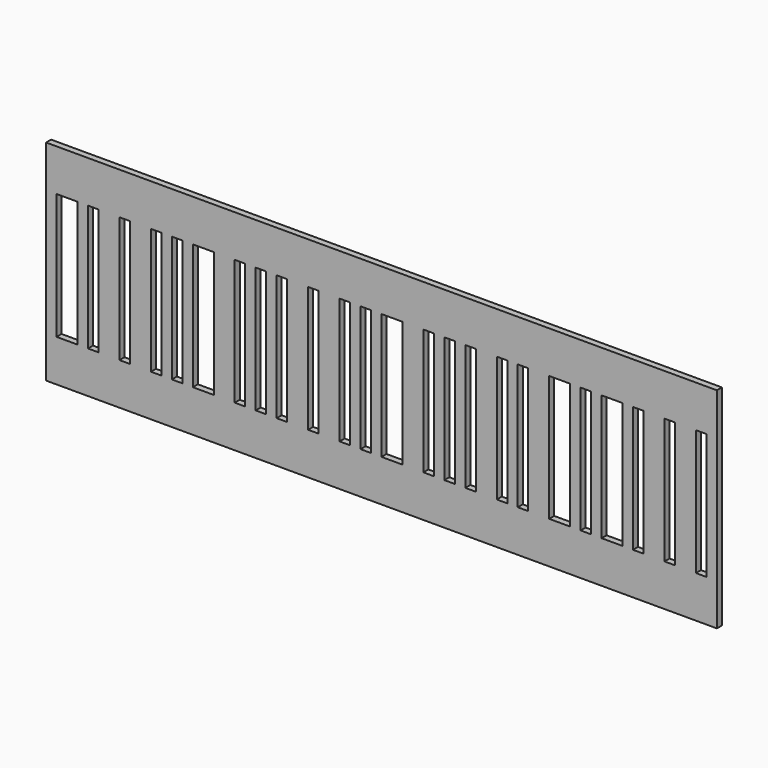
from build123d import *

# Parameters (mm, degrees)
F0_W     = 320
F0_H     = 100
F0_W_2   = 10
F0_H_2   = 60
F0_W_3   = 5
F1_DEPTH = 3


with BuildPart() as f1:
    # F0 (on Front) → F1 (new body)
    with BuildSketch(Plane.XZ):
        with Locations((160, -50)):
            Rectangle(F0_W, F0_H)
        with Locations((10, -50)):
            Rectangle(F0_W_2, F0_H_2, mode=Mode.SUBTRACT)
        with Locations((22.5, -50)):
            Rectangle(F0_W_3, F0_H_2, mode=Mode.SUBTRACT)
        with Locations((37.5, -50)):
            Rectangle(F0_W_3, F0_H_2, mode=Mode.SUBTRACT)
        with Locations((52.5, -50)):
            Rectangle(F0_W_3, F0_H_2, mode=Mode.SUBTRACT)
        with Locations((62.5, -50)):
            Rectangle(F0_W_3, F0_H_2, mode=Mode.SUBTRACT)
        with Locations((75, -50)):
            Rectangle(F0_W_2, F0_H_2, mode=Mode.SUBTRACT)
        with Locations((92.5, -50)):
            Rectangle(F0_W_3, F0_H_2, mode=Mode.SUBTRACT)
        with Locations((102.5, -50)):
            Rectangle(F0_W_3, F0_H_2, mode=Mode.SUBTRACT)
        with Locations((112.5, -50)):
            Rectangle(F0_W_3, F0_H_2, mode=Mode.SUBTRACT)
        with Locations((127.5, -50)):
            Rectangle(F0_W_3, F0_H_2, mode=Mode.SUBTRACT)
        with Locations((142.5, -50)):
            Rectangle(F0_W_3, F0_H_2, mode=Mode.SUBTRACT)
        with Locations((152.5, -50)):
            Rectangle(F0_W_3, F0_H_2, mode=Mode.SUBTRACT)
        with Locations((165, -50)):
            Rectangle(F0_W_2, F0_H_2, mode=Mode.SUBTRACT)
        with Locations((182.5, -50)):
            Rectangle(F0_W_3, F0_H_2, mode=Mode.SUBTRACT)
        with Locations((192.5, -50)):
            Rectangle(F0_W_3, F0_H_2, mode=Mode.SUBTRACT)
        with Locations((202.5, -50)):
            Rectangle(F0_W_3, F0_H_2, mode=Mode.SUBTRACT)
        with Locations((217.5, -50)):
            Rectangle(F0_W_3, F0_H_2, mode=Mode.SUBTRACT)
        with Locations((227.5, -50)):
            Rectangle(F0_W_3, F0_H_2, mode=Mode.SUBTRACT)
        with Locations((245, -50)):
            Rectangle(F0_W_2, F0_H_2, mode=Mode.SUBTRACT)
        with Locations((257.5, -50)):
            Rectangle(F0_W_3, F0_H_2, mode=Mode.SUBTRACT)
        with Locations((270, -50)):
            Rectangle(F0_W_2, F0_H_2, mode=Mode.SUBTRACT)
        with Locations((282.5, -50)):
            Rectangle(F0_W_3, F0_H_2, mode=Mode.SUBTRACT)
        with Locations((297.5, -50)):
            Rectangle(F0_W_3, F0_H_2, mode=Mode.SUBTRACT)
        with Locations((312.5, -50)):
            Rectangle(F0_W_3, F0_H_2, mode=Mode.SUBTRACT)
    extrude(amount=F1_DEPTH)


solid = f1.part
